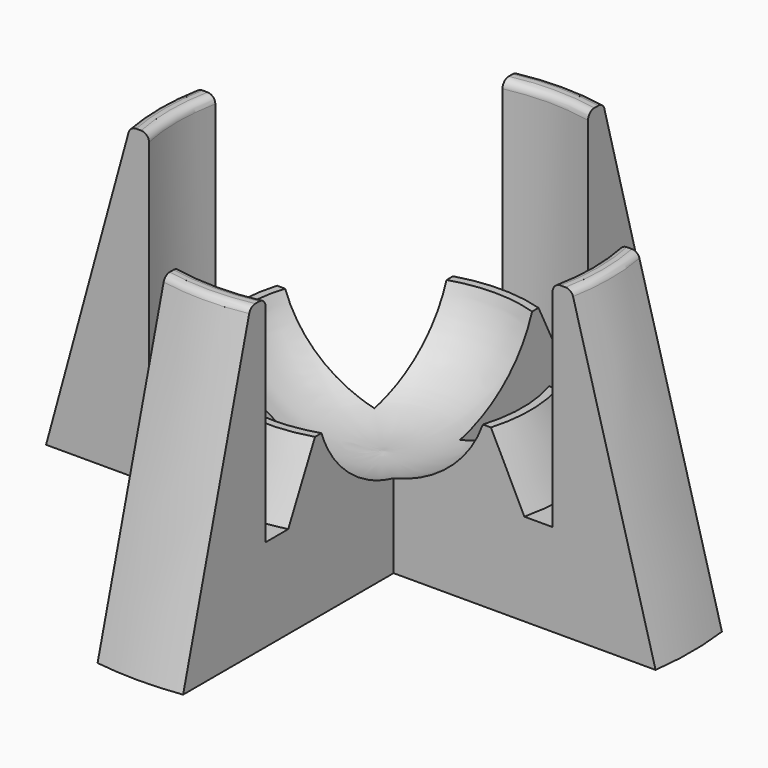
from build123d import *

# Parameters (mm, degrees)
F2_R     = 0.5
F3_W     = 21.0270890966
F3_H     = 19.3190067075
F4_DEPTH = 25


with BuildPart() as f1:
    # F0 (on Front) → F1 (revolve)
    with BuildSketch(Plane.XZ):
        with BuildLine():
            Line((-20, 0), (0, 0))
            Line((0, 0), (0, 5))
            add(Edge.make_bspline(
                [(-9, 10.4), (-6.953539399, 4.2876302106), (0, 5)],
                knots=[3.4384028692, 3.4384028692, 3.4384028692, 4.8240705554, 4.8240705554, 4.8240705554], degree=2, weights=[1, 0.7694390741, 1]))
            Line((-9, 10.4), (-9.5, 10.4))
            Line((-9.5, 10.4), (-11.6, 6))
            Line((-11.6, 6), (-13.4, 6))
            Line((-13.4, 6), (-13.4, 20))
            Line((-13.4, 20), (-14.6, 20))
            Line((-14.6, 20), (-20, 0))
        make_face()
    revolve(axis=Axis((0, 0, 2.5), (0, 0, -1)))

    # F2
    f2_edges = [f1.edges().sort_by_distance(p)[0] for p in [
        (14.6, 0, 20),
        (13.4, 0, 20),
    ]]
    fillet(f2_edges, radius=F2_R)

    # F3 (on Top) → F4 (cut)
    with BuildSketch(Plane.XY):
        with Locations((-13.2951806299, 12.3554796446)):
            Rectangle(F3_W, F3_H)
        with Locations((13.2951806299, 12.3554796446)):
            Rectangle(F3_W, F3_H)
        with Locations((-13.2951806299, -12.3554796446)):
            Rectangle(F3_W, F3_H)
        with Locations((13.2951806299, -12.3554796446)):
            Rectangle(F3_W, F3_H)
    extrude(amount=F4_DEPTH, mode=Mode.SUBTRACT)


solid = f1.part
